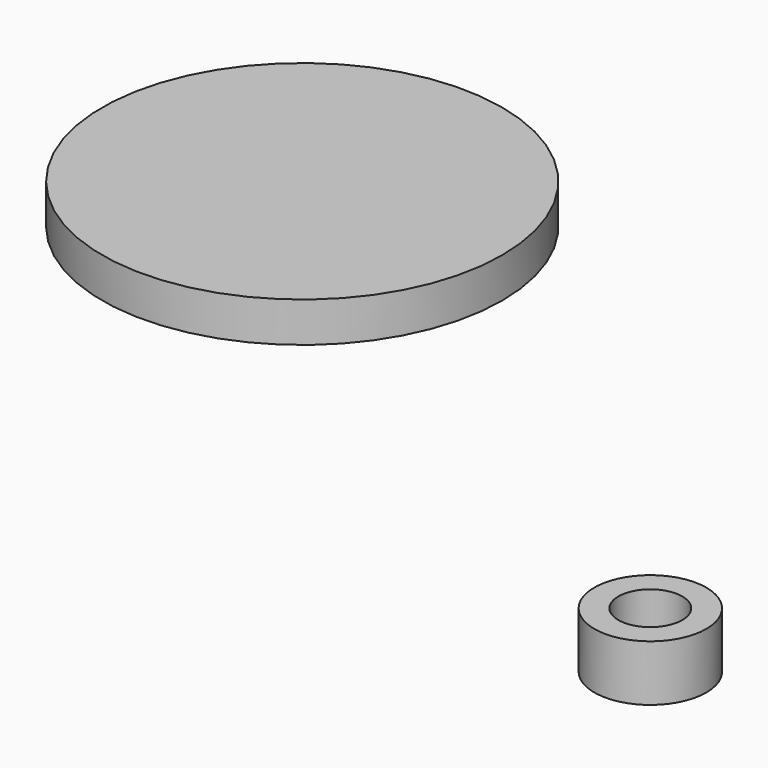
from build123d import *

# Parameters (mm, degrees)
F0_R     = 7
F0_R_2   = 4
F1_DEPTH = 3.5
F2_R     = 25
F3_DEPTH = 5


with BuildPart() as f1:
    # F0 (on Top) → F1 (new body, symmetric)
    with BuildSketch(Plane.XY):
        Circle(F0_R)
        Circle(F0_R_2, mode=Mode.SUBTRACT)
    extrude(amount=F1_DEPTH, both=True)


with BuildPart() as f3:
    # F2 (on Top) → F3 (new body)
    with BuildSketch(Plane.XY):
        with Locations((-81.103623, 46.993777)):
            Circle(F2_R)
    extrude(amount=F3_DEPTH)


solid = Compound([f1.part, f3.part])
